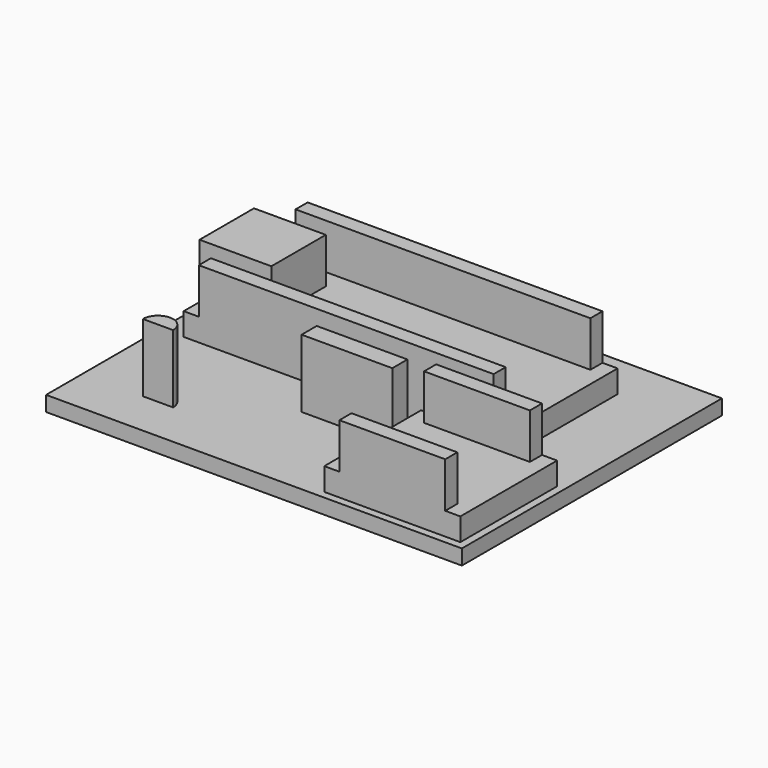
from build123d import *

# Parameters (mm, degrees)
F0_W     = 55
F0_H     = 43
F1_DEPTH = 2
F2_W     = 43
F2_H     = 18
F2_W_2   = 12
F2_H_2   = 2.5
F2_W_3   = 18
F2_H_3   = 16
F3_DEPTH = 9
F5_DEPTH = 6
F6_W     = 9
F6_H     = 6
F7_DEPTH = 1.5


with BuildPart() as f1:
    # F0 (on Top) → F1 (new body)
    with BuildSketch(Plane.XY):
        Rectangle(F0_W, F0_H)
    extrude(amount=F1_DEPTH)

    # F2 (on face) → F3 (join)
    with BuildSketch(Plane.XY.offset(2)):
        with Locations((-3, 6.5)):
            Rectangle(F2_W, F2_H)
        with Locations((1.5, -6.75)):
            Rectangle(F2_W_2, F2_H_2)
        with Locations((17.5, -12.5)):
            Rectangle(F2_W_3, F2_H_3)
        with BuildLine():
            ThreePointArc((-15.5, -15.5), (-17.5, -13.5), (-19.5, -15.5))
            Line((-19.5, -15.5), (-15.5, -15.5))
        make_face()
    extrude(amount=F3_DEPTH)

    # F4 (on face) → F5 (cut)
    with BuildSketch(Plane.XY.offset(11)):
        Polygon((-22.5, 13.5), (-22.5, 15.5), (-24.5, 15.5), (-24.5, 11), (-16.5, 11), (-16.5, 2), (-24.5, 2), (-24.5, -2.5), (-22.5, -2.5), (-22.5, -0.5), (16.5, -0.5), (16.5, -2.5), (18.5, -2.5), (18.5, 15.5), (16.5, 15.5), (16.5, 13.5), align=None)
        Polygon((10.5, -4.5), (8.5, -4.5), (8.5, -20.5), (10.5, -20.5), (10.5, -18.5), (24.5, -18.5), (24.5, -20.5), (26.5, -20.5), (26.5, -4.5), (24.5, -4.5), (24.5, -6.5), (10.5, -6.5), align=None)
    extrude(amount=-F5_DEPTH, mode=Mode.SUBTRACT)

    # F6 (on face) → F7 (join)
    with BuildSketch(Plane(origin=(-24.5, 0, 0), x_dir=(0, -1, 0), z_dir=(-1, 0, 0))):
        with Locations((-6.5, 8)):
            Rectangle(F6_W, F6_H)
    extrude(amount=F7_DEPTH)


solid = f1.part
